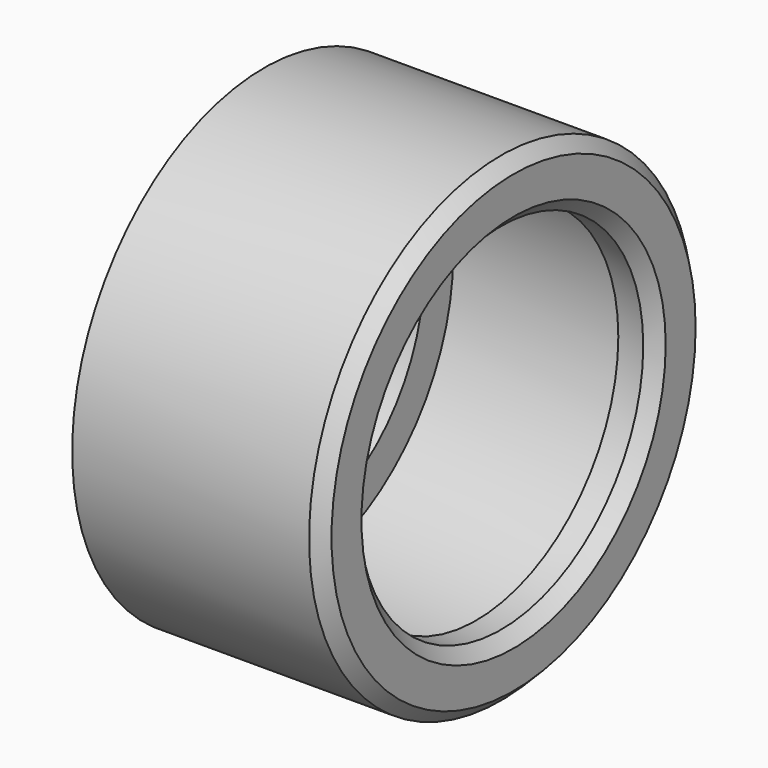
from build123d import *

# Parameters (mm, degrees)
F0_R     = 19.25
F0_R_2   = 17.25
F1_DEPTH = 17
F2_R     = 19.25
F2_R_2   = 14.25
F3_DEPTH = 3
F4_SIZE  = 1
F5_R     = 17.05
F5_R_2   = 13.5
F6_DEPTH = 2
F7_SIZE  = 0.6


with BuildPart() as f1:
    # F0 (on Right) → F1 (new body)
    with BuildSketch(Plane.YZ):
        Circle(F0_R)
        Circle(F0_R_2, mode=Mode.SUBTRACT)
    extrude(amount=F1_DEPTH)

    # F2 (on face) → F3 (join)
    with BuildSketch(Plane.YZ.offset(17)):
        Circle(F2_R)
        Circle(F2_R_2, mode=Mode.SUBTRACT)
    extrude(amount=F3_DEPTH)

    # F4
    f4_edges = [f1.edges().sort_by_distance(p)[0] for p in [
        (20, -19.25, 0),
        (20, -14.25, 0),
        (0, -17.25, 0),
    ]]
    chamfer(f4_edges, length=F4_SIZE)


with BuildPart() as f6:
    # F5 (on Right) → F6 (new body)
    with BuildSketch(Plane.YZ):
        Circle(F5_R)
        Circle(F5_R_2, mode=Mode.SUBTRACT)
    extrude(amount=F6_DEPTH)

    # F7
    f7_edges = [f6.edges().sort_by_distance(p)[0] for p in [
        (2, -17.05, 0),
    ]]
    chamfer(f7_edges, length=F7_SIZE)


solid = Compound([f1.part, f6.part])
